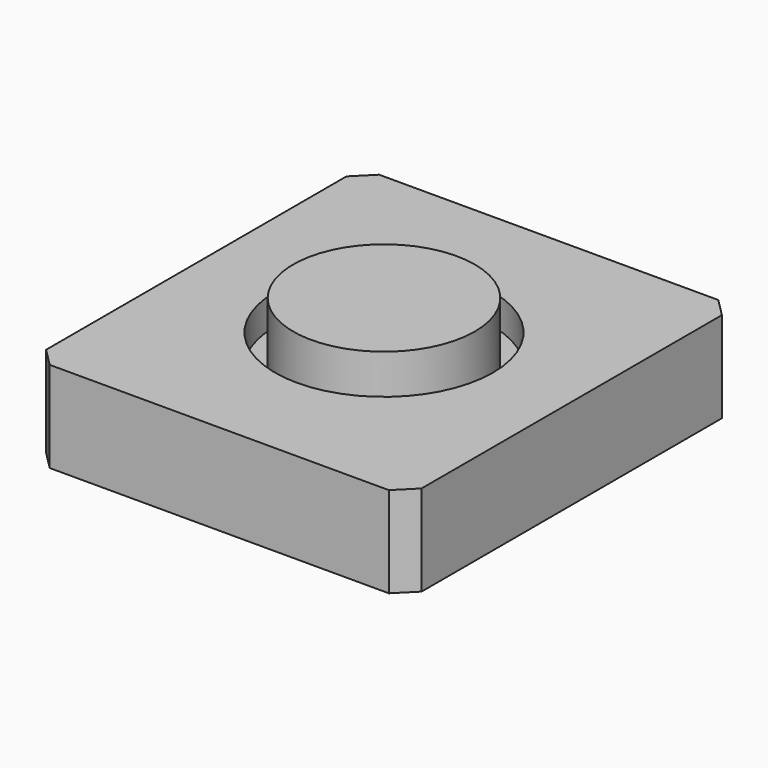
from build123d import *

# Parameters (mm, degrees)
F0_W     = 6.2
F0_H     = 6.8
F1_DEPTH = 1.5
F2_R     = 1.8
F3_DEPTH = 0.5
F4_R     = 1.5
F5_DEPTH = 1
F6_SIZE  = 0.3


with BuildPart() as f1:
    # F0 (on Top) → F1 (new body)
    with BuildSketch(Plane.XY):
        Rectangle(F0_W, F0_H)
    extrude(amount=F1_DEPTH)

    # F2 (on face) → F3 (cut)
    with BuildSketch(Plane.XY.offset(1.5)):
        Circle(F2_R)
    extrude(amount=-F3_DEPTH, mode=Mode.SUBTRACT)

    # F4 (on face) → F5 (join)
    with BuildSketch(Plane.XY.offset(1)):
        Circle(F4_R)
    extrude(amount=F5_DEPTH)

    # F6
    f6_edges = [f1.edges().sort_by_distance(p)[0] for p in [
        (-3.1, -3.4, 0.75),
        (3.1, -3.4, 0.75),
        (3.1, 3.4, 0.75),
        (-3.1, 3.4, 0.75),
    ]]
    chamfer(f6_edges, length=F6_SIZE)


solid = f1.part
